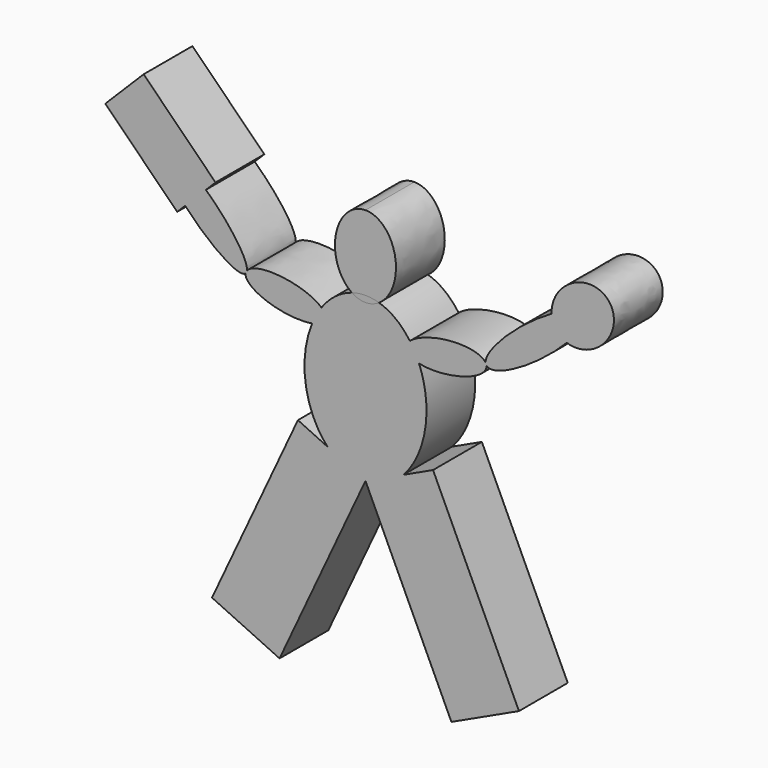
from build123d import *

# Parameters (mm, degrees)
F1_DEPTH = 228.6
F3_DEPTH = 228.6
F5_DEPTH = 228.6
F7_DEPTH = 228.6


with BuildPart() as f1:
    # F0 (on Front) → F1 (new body)
    with BuildSketch(Plane.XZ):
        Polygon((-417.506787508, 908.1656164874), (-670.729183206, 790.086074157), (-348.6940677596, 99.4795404351), (-95.4716720616, 217.5590827655), align=None)
    extrude(amount=F1_DEPTH)



with BuildPart() as f1b:
    # F0 (on Front) → F1, piece 2 (new body)
    with BuildSketch(Plane.XZ):
        Polygon((-992.7642986524, 99.4795404351), (-670.729183206, 790.086074157), (-923.9515789041, 908.1656164874), (-1245.9866943505, 217.5590827655), align=None)
    extrude(amount=F1_DEPTH)


with BuildPart() as f1_1:
    add(f1.part)

    add(f1b.part)  # F3 merges F1b
    # F2 (on Front) → F3 (join)
    with BuildSketch(Plane.XZ):
        with BuildLine():
            add(Edge.make_bspline(
                [(-670.729183206, 790.086074157), (-274.7823685958, 790.086074157), (-472.7557759009, 1249.0815185393), (-670.729183206, 1708.0769629215), (-868.7025905111, 1249.0815185393), (-1066.6759978163, 790.086074157), (-670.729183206, 790.086074157)],
                knots=[0, 0, 0, 2.0943951024, 2.0943951024, 4.1887902048, 4.1887902048, 6.2831853072, 6.2831853072, 6.2831853072], degree=2, weights=[1, 0.5, 1, 0.5, 1, 0.5, 1]))
        make_face()
    extrude(amount=F3_DEPTH)

    # F4 (on Front) → F5 (join)
    with BuildSketch(Plane.XZ):
        with BuildLine():
            add(Edge.make_bspline(
                [(-1119.6372919656, 1328.9793179683), (-1129.4047671221, 1273.5852136898), (-979.320065563, 1247.1212314133), (-829.235364004, 1220.6572491369), (-819.4678888475, 1276.0513534154)],
                knots=[3.1415926536, 3.1415926536, 3.1415926536, 4.7123889804, 4.7123889804, 6.2831853072, 6.2831853072, 6.2831853072], degree=2, weights=[1, 0.7071067812, 1, 0.7071067812, 1]))
            Line((-819.4678888475, 1276.0513534154), (-824.8380199135, 1296.0929553971))
            add(Edge.make_bspline(
                [(-824.8380199135, 1296.0929553971), (-976.0363555723, 1521.4127082825), (-1115.1541483506, 1338.8831593496)],
                knots=[0.3408753905, 0.3408753905, 0.3408753905, 2.9532432588, 2.9532432588, 2.9532432588], degree=2, weights=[1, 0.2615351715, 1]))
            add(Edge.make_bspline(
                [(-1119.6372919656, 1328.9793179683), (-1116.0101318347, 1332.6064780992), (-1115.1541483506, 1338.8831593496)],
                knots=[0, 0, 0, 0.1833966347, 0.1833966347, 0.1833966347], degree=2, weights=[1, 0.9957986545, 1]))
        make_face()
        with BuildLine():
            Line((-824.8380199135, 1296.0929553971), (-819.4678888475, 1276.0513534154))
            add(Edge.make_bspline(
                [(-819.4678888475, 1276.0513534154), (-817.7868336202, 1285.5850913638), (-824.8380199135, 1296.0929553971)],
                knots=[0, 0, 0, 0.3408753905, 0.3408753905, 0.3408753905], degree=2, weights=[1, 0.9855106222, 1]))
        make_face()
        with BuildLine():
            add(Edge.make_bspline(
                [(-1346.590239894, 1478.1046982745), (-1166.1558427335, 1282.4607672004), (-1119.6372919656, 1328.9793179683)],
                knots=[4.5481737623, 4.5481737623, 4.5481737623, 6.2831853072, 6.2831853072, 6.2831853072], degree=2, weights=[1, 0.6467309498, 1]))
            add(Edge.make_bspline(
                [(-1115.1541483506, 1338.8831593496), (-1118.7147139253, 1334.2115180353), (-1119.6372919656, 1328.9793179683)],
                knots=[2.9532432588, 2.9532432588, 2.9532432588, 3.1415926536, 3.1415926536, 3.1415926536], degree=2, weights=[1, 0.9955688396, 1]))
            add(Edge.make_bspline(
                [(-1115.1541483506, 1338.8831593496), (-1106.0224099067, 1405.8435768565), (-1268.7626722718, 1555.9322658967)],
                knots=[0.1833966347, 0.1833966347, 0.1833966347, 1.7350115449, 1.7350115449, 1.7350115449], degree=2, weights=[1, 0.7138558119, 1]))
            Line((-1268.7626722718, 1555.9322658967), (-1232.7550545286, 1591.9398836399))
            Line((-1232.7550545286, 1591.9398836399), (-1502.1627381607, 1861.347567272))
            Line((-1502.1627381607, 1861.347567272), (-1645.8468360978, 1717.6634693349))
            Line((-1645.8468360978, 1717.6634693349), (-1376.4391524657, 1448.2557857028))
            Line((-1376.4391524657, 1448.2557857028), (-1346.590239894, 1478.1046982745))
        make_face()
        with BuildLine():
            add(Edge.make_bspline(
                [(-1115.1541483506, 1338.8831593496), (-1118.7147139253, 1334.2115180353), (-1119.6372919656, 1328.9793179683)],
                knots=[2.9532432588, 2.9532432588, 2.9532432588, 3.1415926536, 3.1415926536, 3.1415926536], degree=2, weights=[1, 0.9955688396, 1]))
            add(Edge.make_bspline(
                [(-1119.6372919656, 1328.9793179683), (-1116.0101318347, 1332.6064780992), (-1115.1541483506, 1338.8831593496)],
                knots=[0, 0, 0, 0.1833966347, 0.1833966347, 0.1833966347], degree=2, weights=[1, 0.9957986545, 1]))
        make_face()
        with BuildLine():
            add(Edge.make_bspline(
                [(-220.0640037242, 1324.9719982086), (-245.7164837118, 1374.1412422475), (-386.3097131186, 1351.1852408137), (-526.9029425254, 1328.2292393798), (-519.6766675333, 1276.0513725922)],
                knots=[3.2727470362, 3.2727470362, 3.2727470362, 4.7779661717, 4.7779661717, 6.2831853072, 6.2831853072, 6.2831853072], degree=2, weights=[1, 0.729907597, 1, 0.729907597, 1]))
            add(Edge.make_bspline(
                [(-519.6766675333, 1276.0513725922), (-511.8558698391, 1219.5807095315), (-358.9732507465, 1241.5272960266), (-206.0906316539, 1263.4738825218), (-218.0202465192, 1319.354717177)],
                knots=[0, 0, 0, 1.5842345478, 1.5842345478, 3.1684690956, 3.1684690956, 3.1684690956], degree=2, weights=[1, 0.7023397267, 1, 0.7023397267, 1]))
            add(Edge.make_bspline(
                [(-220.0640037242, 1324.9719982086), (-219.5202096675, 1321.8059223504), (-218.0202465192, 1319.354717177)],
                knots=[6.1533894996, 6.1533894996, 6.1533894996, 6.2557249069, 6.2557249069, 6.2557249069], degree=2, weights=[1, 0.9986912186, 1]))
        make_face()
        with BuildLine():
            add(Edge.make_bspline(
                [(-220.0640037242, 1324.9719982086), (-219.5202096675, 1321.8059223504), (-218.0202465192, 1319.354717177)],
                knots=[6.1533894996, 6.1533894996, 6.1533894996, 6.2557249069, 6.2557249069, 6.2557249069], degree=2, weights=[1, 0.9986912186, 1]))
            add(Edge.make_bspline(
                [(-218.0202465192, 1319.354717177), (-218.6344981829, 1322.2320016528), (-220.0640037242, 1324.9719982086)],
                knots=[3.1684690956, 3.1684690956, 3.1684690956, 3.2727470362, 3.2727470362, 3.2727470362], degree=2, weights=[1, 0.9986410718, 1]))
        make_face()
        with BuildLine():
            add(Edge.make_bspline(
                [(-218.0202465192, 1319.354717177), (-218.6344981829, 1322.2320016528), (-220.0640037242, 1324.9719982086)],
                knots=[3.1684690956, 3.1684690956, 3.1684690956, 3.2727470362, 3.2727470362, 3.2727470362], degree=2, weights=[1, 0.9986410718, 1]))
            add(Edge.make_bspline(
                [(-218.0202465192, 1319.354717177), (-165.3104605433, 1233.2176009287), (83.8513333913, 1491.2682324307)],
                knots=[6.2557249069, 6.2557249069, 6.2557249069, 8.3829511016, 8.3829511016, 8.3829511016], degree=2, weights=[1, 0.4857169924, 1]))
            add(Edge.make_bspline(
                [(83.8513333913, 1491.2682324307), (206.0199962311, 1448.0942394411), (253.6499750502, 1584.9938029487), (301.2799538693, 1721.8933664563), (160.5505282117, 1711.7194388481), (19.8211025542, 1701.5455112398), (27.0314901571, 1568.6105906303)],
                knots=[0.4258807459, 0.4258807459, 0.4258807459, 2.1927747403, 2.1927747403, 3.9596687347, 3.9596687347, 5.7265627292, 5.7265627292, 5.7265627292], degree=2, weights=[1, 0.6344906294, 1, 0.6344906294, 1, 0.6344906294, 1]))
            add(Edge.make_bspline(
                [(27.0314901571, 1568.6105906303), (-236.3040213491, 1419.5245721323), (-220.0640037242, 1324.9719982086)],
                knots=[4.1699395104, 4.1699395104, 4.1699395104, 6.1533894996, 6.1533894996, 6.1533894996], degree=2, weights=[1, 0.5472469046, 1]))
        make_face()
    extrude(amount=F5_DEPTH)

    # F6 (on Front) → F7 (join)
    with BuildSketch(Plane.XZ):
        with BuildLine():
            add(Edge.make_bspline(
                [(-670.7291857719, 1683.2866416931), (-868.7025930771, 1683.2866416931), (-769.7158894245, 1454.6866416931), (-670.7291857719, 1226.0866416931), (-571.7424821194, 1454.6866416931), (-472.7557784668, 1683.2866416931), (-670.7291857719, 1683.2866416931)],
                knots=[0, 0, 0, 2.0943951024, 2.0943951024, 4.1887902048, 4.1887902048, 6.2831853072, 6.2831853072, 6.2831853072], degree=2, weights=[1, 0.5, 1, 0.5, 1, 0.5, 1]))
        make_face()
    extrude(amount=F7_DEPTH)


solid = f1_1.part
